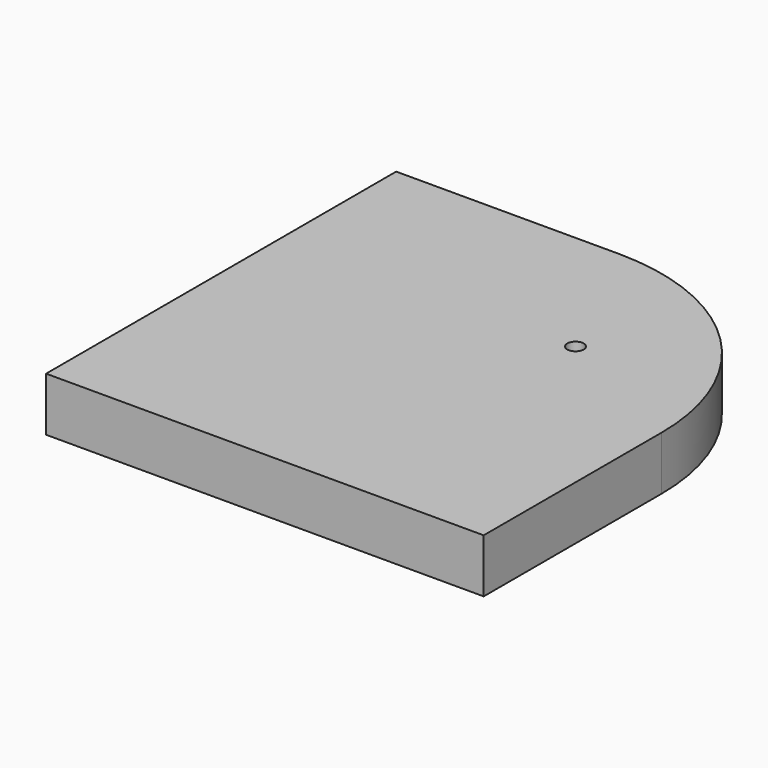
from build123d import *

# Parameters (mm, degrees)
CYLINDER006_R     = 1.15
CYLINDER006_DEPTH = 40
BOX010_W          = 61
BOX010_H          = 61
BOX010_DEPTH      = 7.5
FILLET002_R       = 30


with BuildPart() as obj1:
    # Cylinder006 → Cylinder006 (new body)
    with BuildSketch(Plane(origin=(41, 41, -20), x_dir=(1, 0, 0), z_dir=(0, 0, 1))):
        Circle(CYLINDER006_R)
    extrude(amount=CYLINDER006_DEPTH)


with BuildPart() as cut009:
    # Box010 → Box010 (new body)
    with BuildSketch(Plane.XY.offset(-7.5)):
        with Locations((30.5, 30.5)):
            Rectangle(BOX010_W, BOX010_H)
    extrude(amount=BOX010_DEPTH)

    # Fillet002
    fillet002_edges = [cut009.edges().sort_by_distance(p)[0] for p in [
        (61, 61, -3.75),
    ]]
    fillet(fillet002_edges, radius=FILLET002_R)

    # Cut009: cut obj1
    add(obj1.part, mode=Mode.SUBTRACT)


solid = cut009.part
